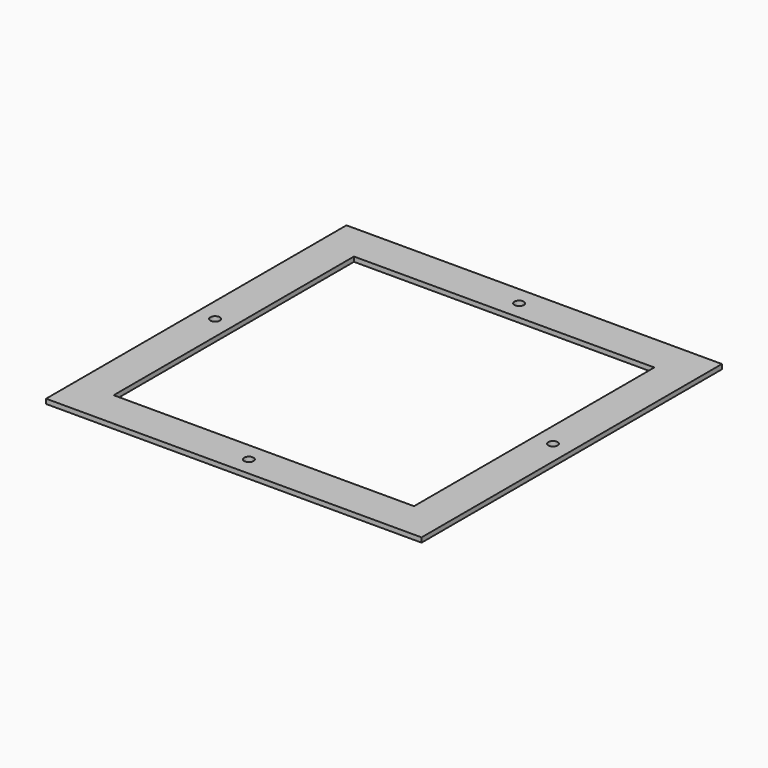
from build123d import *

# Parameters (mm, degrees)
F0_W     = 400
F0_H     = 400
F0_R     = 5
F0_W_2   = 320
F0_H_2   = 320
F1_DEPTH = 5


with BuildPart() as f1:
    # F0 (on Top) → F1 (new body)
    with BuildSketch(Plane.XY):
        Rectangle(F0_W, F0_H)
        with Locations((0, -180)):
            Circle(F0_R, mode=Mode.SUBTRACT)
        with Locations((-180, 0)):
            Circle(F0_R, mode=Mode.SUBTRACT)
        Rectangle(F0_W_2, F0_H_2, mode=Mode.SUBTRACT)
        with Locations((180, 0)):
            Circle(F0_R, mode=Mode.SUBTRACT)
        with Locations((0, 180)):
            Circle(F0_R, mode=Mode.SUBTRACT)
    extrude(amount=F1_DEPTH)


solid = f1.part
